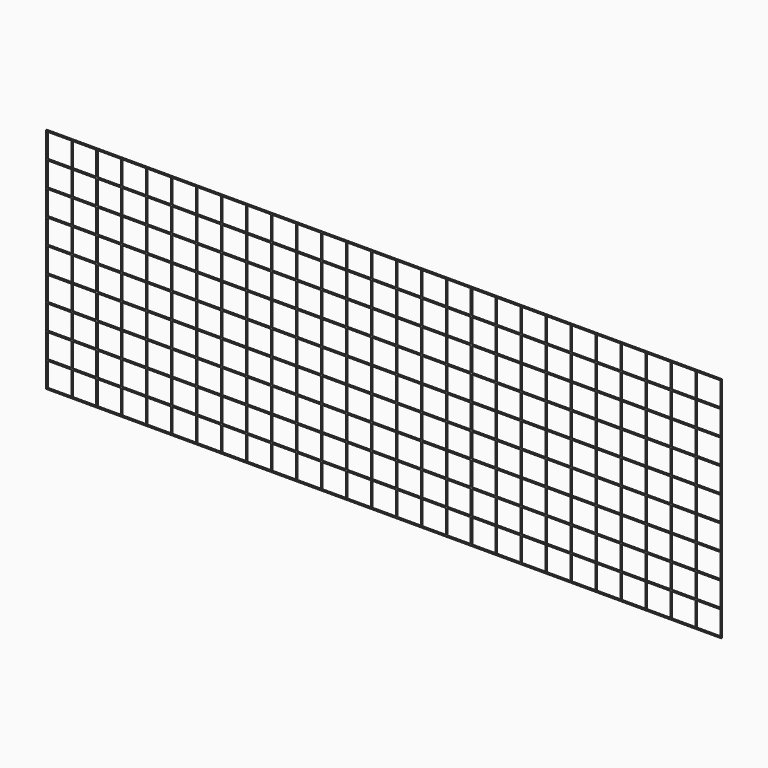
from build123d import *

# Parameters (mm, degrees)
F0_W     = 2722.88
F0_H     = 919.48
F1_DEPTH = 2.54
F2_W     = 96.52
F2_H     = 96.52
F3_DEPTH = 2.54


with BuildPart() as f1:
    # F0 (on Front) → F1 (new body)
    with BuildSketch(Plane.XZ):
        with Locations((1361.44, 459.74)):
            Rectangle(F0_W, F0_H)
    extrude(amount=F1_DEPTH)

    # F2 (on face) → F3 (cut)
    with BuildSketch(Plane.XZ):
        with Locations((53.34, 866.14)):
            Rectangle(F2_W, F2_H)
        with Locations((53.34, 764.54)):
            Rectangle(F2_W, F2_H)
        with Locations((53.34, 662.94)):
            Rectangle(F2_W, F2_H)
        with Locations((53.34, 561.34)):
            Rectangle(F2_W, F2_H)
        with Locations((53.34, 459.74)):
            Rectangle(F2_W, F2_H)
        with Locations((53.34, 358.14)):
            Rectangle(F2_W, F2_H)
        with Locations((53.34, 256.54)):
            Rectangle(F2_W, F2_H)
        with Locations((53.34, 154.94)):
            Rectangle(F2_W, F2_H)
        with Locations((53.34, 53.34)):
            Rectangle(F2_W, F2_H)
        with Locations((154.0002, 866.14)):
            Rectangle(F2_W, F2_H)
        with Locations((154.0002, 764.54)):
            Rectangle(F2_W, F2_H)
        with Locations((154.0002, 662.94)):
            Rectangle(F2_W, F2_H)
        with Locations((154.0002, 561.34)):
            Rectangle(F2_W, F2_H)
        with Locations((154.0002, 459.74)):
            Rectangle(F2_W, F2_H)
        with Locations((154.0002, 358.14)):
            Rectangle(F2_W, F2_H)
        with Locations((154.0002, 256.54)):
            Rectangle(F2_W, F2_H)
        with Locations((154.0002, 154.94)):
            Rectangle(F2_W, F2_H)
        with Locations((154.0002, 53.34)):
            Rectangle(F2_W, F2_H)
        with Locations((254.6604, 866.14)):
            Rectangle(F2_W, F2_H)
        with Locations((254.6604, 764.54)):
            Rectangle(F2_W, F2_H)
        with Locations((254.6604, 662.94)):
            Rectangle(F2_W, F2_H)
        with Locations((254.6604, 561.34)):
            Rectangle(F2_W, F2_H)
        with Locations((254.6604, 459.74)):
            Rectangle(F2_W, F2_H)
        with Locations((254.6604, 358.14)):
            Rectangle(F2_W, F2_H)
        with Locations((254.6604, 256.54)):
            Rectangle(F2_W, F2_H)
        with Locations((254.6604, 154.94)):
            Rectangle(F2_W, F2_H)
        with Locations((254.6604, 53.34)):
            Rectangle(F2_W, F2_H)
        with Locations((355.3206, 866.14)):
            Rectangle(F2_W, F2_H)
        with Locations((355.3206, 764.54)):
            Rectangle(F2_W, F2_H)
        with Locations((355.3206, 662.94)):
            Rectangle(F2_W, F2_H)
        with Locations((355.3206, 561.34)):
            Rectangle(F2_W, F2_H)
        with Locations((355.3206, 459.74)):
            Rectangle(F2_W, F2_H)
        with Locations((355.3206, 358.14)):
            Rectangle(F2_W, F2_H)
        with Locations((355.3206, 256.54)):
            Rectangle(F2_W, F2_H)
        with Locations((355.3206, 154.94)):
            Rectangle(F2_W, F2_H)
        with Locations((355.3206, 53.34)):
            Rectangle(F2_W, F2_H)
        with Locations((455.9808, 866.14)):
            Rectangle(F2_W, F2_H)
        with Locations((455.9808, 764.54)):
            Rectangle(F2_W, F2_H)
        with Locations((455.9808, 662.94)):
            Rectangle(F2_W, F2_H)
        with Locations((455.9808, 561.34)):
            Rectangle(F2_W, F2_H)
        with Locations((455.9808, 459.74)):
            Rectangle(F2_W, F2_H)
        with Locations((455.9808, 358.14)):
            Rectangle(F2_W, F2_H)
        with Locations((455.9808, 256.54)):
            Rectangle(F2_W, F2_H)
        with Locations((455.9808, 154.94)):
            Rectangle(F2_W, F2_H)
        with Locations((455.9808, 53.34)):
            Rectangle(F2_W, F2_H)
        with Locations((556.641, 866.14)):
            Rectangle(F2_W, F2_H)
        with Locations((556.641, 764.54)):
            Rectangle(F2_W, F2_H)
        with Locations((556.641, 662.94)):
            Rectangle(F2_W, F2_H)
        with Locations((556.641, 561.34)):
            Rectangle(F2_W, F2_H)
        with Locations((556.641, 459.74)):
            Rectangle(F2_W, F2_H)
        with Locations((556.641, 358.14)):
            Rectangle(F2_W, F2_H)
        with Locations((556.641, 256.54)):
            Rectangle(F2_W, F2_H)
        with Locations((556.641, 154.94)):
            Rectangle(F2_W, F2_H)
        with Locations((556.641, 53.34)):
            Rectangle(F2_W, F2_H)
        with Locations((657.3012, 866.14)):
            Rectangle(F2_W, F2_H)
        with Locations((657.3012, 764.54)):
            Rectangle(F2_W, F2_H)
        with Locations((657.3012, 662.94)):
            Rectangle(F2_W, F2_H)
        with Locations((657.3012, 561.34)):
            Rectangle(F2_W, F2_H)
        with Locations((657.3012, 459.74)):
            Rectangle(F2_W, F2_H)
        with Locations((657.3012, 358.14)):
            Rectangle(F2_W, F2_H)
        with Locations((657.3012, 256.54)):
            Rectangle(F2_W, F2_H)
        with Locations((657.3012, 154.94)):
            Rectangle(F2_W, F2_H)
        with Locations((657.3012, 53.34)):
            Rectangle(F2_W, F2_H)
        with Locations((757.9614, 866.14)):
            Rectangle(F2_W, F2_H)
        with Locations((757.9614, 764.54)):
            Rectangle(F2_W, F2_H)
        with Locations((757.9614, 662.94)):
            Rectangle(F2_W, F2_H)
        with Locations((757.9614, 561.34)):
            Rectangle(F2_W, F2_H)
        with Locations((757.9614, 459.74)):
            Rectangle(F2_W, F2_H)
        with Locations((757.9614, 358.14)):
            Rectangle(F2_W, F2_H)
        with Locations((757.9614, 256.54)):
            Rectangle(F2_W, F2_H)
        with Locations((757.9614, 154.94)):
            Rectangle(F2_W, F2_H)
        with Locations((757.9614, 53.34)):
            Rectangle(F2_W, F2_H)
        with Locations((858.6216, 866.14)):
            Rectangle(F2_W, F2_H)
        with Locations((858.6216, 764.54)):
            Rectangle(F2_W, F2_H)
        with Locations((858.6216, 662.94)):
            Rectangle(F2_W, F2_H)
        with Locations((858.6216, 561.34)):
            Rectangle(F2_W, F2_H)
        with Locations((858.6216, 459.74)):
            Rectangle(F2_W, F2_H)
        with Locations((858.6216, 358.14)):
            Rectangle(F2_W, F2_H)
        with Locations((858.6216, 256.54)):
            Rectangle(F2_W, F2_H)
        with Locations((858.6216, 154.94)):
            Rectangle(F2_W, F2_H)
        with Locations((858.6216, 53.34)):
            Rectangle(F2_W, F2_H)
        with Locations((959.2818, 866.14)):
            Rectangle(F2_W, F2_H)
        with Locations((959.2818, 764.54)):
            Rectangle(F2_W, F2_H)
        with Locations((959.2818, 662.94)):
            Rectangle(F2_W, F2_H)
        with Locations((959.2818, 561.34)):
            Rectangle(F2_W, F2_H)
        with Locations((959.2818, 459.74)):
            Rectangle(F2_W, F2_H)
        with Locations((959.2818, 358.14)):
            Rectangle(F2_W, F2_H)
        with Locations((959.2818, 256.54)):
            Rectangle(F2_W, F2_H)
        with Locations((959.2818, 154.94)):
            Rectangle(F2_W, F2_H)
        with Locations((959.2818, 53.34)):
            Rectangle(F2_W, F2_H)
        with Locations((1059.942, 866.14)):
            Rectangle(F2_W, F2_H)
        with Locations((1059.942, 764.54)):
            Rectangle(F2_W, F2_H)
        with Locations((1059.942, 662.94)):
            Rectangle(F2_W, F2_H)
        with Locations((1059.942, 561.34)):
            Rectangle(F2_W, F2_H)
        with Locations((1059.942, 459.74)):
            Rectangle(F2_W, F2_H)
        with Locations((1059.942, 358.14)):
            Rectangle(F2_W, F2_H)
        with Locations((1059.942, 256.54)):
            Rectangle(F2_W, F2_H)
        with Locations((1059.942, 154.94)):
            Rectangle(F2_W, F2_H)
        with Locations((1059.942, 53.34)):
            Rectangle(F2_W, F2_H)
        with Locations((1160.6022, 866.14)):
            Rectangle(F2_W, F2_H)
        with Locations((1160.6022, 764.54)):
            Rectangle(F2_W, F2_H)
        with Locations((1160.6022, 662.94)):
            Rectangle(F2_W, F2_H)
        with Locations((1160.6022, 561.34)):
            Rectangle(F2_W, F2_H)
        with Locations((1160.6022, 459.74)):
            Rectangle(F2_W, F2_H)
        with Locations((1160.6022, 358.14)):
            Rectangle(F2_W, F2_H)
        with Locations((1160.6022, 256.54)):
            Rectangle(F2_W, F2_H)
        with Locations((1160.6022, 154.94)):
            Rectangle(F2_W, F2_H)
        with Locations((1160.6022, 53.34)):
            Rectangle(F2_W, F2_H)
        with Locations((1261.2624, 866.14)):
            Rectangle(F2_W, F2_H)
        with Locations((1261.2624, 764.54)):
            Rectangle(F2_W, F2_H)
        with Locations((1261.2624, 662.94)):
            Rectangle(F2_W, F2_H)
        with Locations((1261.2624, 561.34)):
            Rectangle(F2_W, F2_H)
        with Locations((1261.2624, 459.74)):
            Rectangle(F2_W, F2_H)
        with Locations((1261.2624, 358.14)):
            Rectangle(F2_W, F2_H)
        with Locations((1261.2624, 256.54)):
            Rectangle(F2_W, F2_H)
        with Locations((1261.2624, 154.94)):
            Rectangle(F2_W, F2_H)
        with Locations((1261.2624, 53.34)):
            Rectangle(F2_W, F2_H)
        with Locations((1361.9226, 866.14)):
            Rectangle(F2_W, F2_H)
        with Locations((1361.9226, 764.54)):
            Rectangle(F2_W, F2_H)
        with Locations((1361.9226, 662.94)):
            Rectangle(F2_W, F2_H)
        with Locations((1361.9226, 561.34)):
            Rectangle(F2_W, F2_H)
        with Locations((1361.9226, 459.74)):
            Rectangle(F2_W, F2_H)
        with Locations((1361.9226, 358.14)):
            Rectangle(F2_W, F2_H)
        with Locations((1361.9226, 256.54)):
            Rectangle(F2_W, F2_H)
        with Locations((1361.9226, 154.94)):
            Rectangle(F2_W, F2_H)
        with Locations((1361.9226, 53.34)):
            Rectangle(F2_W, F2_H)
        with Locations((1462.5828, 866.14)):
            Rectangle(F2_W, F2_H)
        with Locations((1462.5828, 764.54)):
            Rectangle(F2_W, F2_H)
        with Locations((1462.5828, 662.94)):
            Rectangle(F2_W, F2_H)
        with Locations((1462.5828, 561.34)):
            Rectangle(F2_W, F2_H)
        with Locations((1462.5828, 459.74)):
            Rectangle(F2_W, F2_H)
        with Locations((1462.5828, 358.14)):
            Rectangle(F2_W, F2_H)
        with Locations((1462.5828, 256.54)):
            Rectangle(F2_W, F2_H)
        with Locations((1462.5828, 154.94)):
            Rectangle(F2_W, F2_H)
        with Locations((1462.5828, 53.34)):
            Rectangle(F2_W, F2_H)
        with Locations((1563.243, 866.14)):
            Rectangle(F2_W, F2_H)
        with Locations((1563.243, 764.54)):
            Rectangle(F2_W, F2_H)
        with Locations((1563.243, 662.94)):
            Rectangle(F2_W, F2_H)
        with Locations((1563.243, 561.34)):
            Rectangle(F2_W, F2_H)
        with Locations((1563.243, 459.74)):
            Rectangle(F2_W, F2_H)
        with Locations((1563.243, 358.14)):
            Rectangle(F2_W, F2_H)
        with Locations((1563.243, 256.54)):
            Rectangle(F2_W, F2_H)
        with Locations((1563.243, 154.94)):
            Rectangle(F2_W, F2_H)
        with Locations((1563.243, 53.34)):
            Rectangle(F2_W, F2_H)
        with Locations((1663.9032, 866.14)):
            Rectangle(F2_W, F2_H)
        with Locations((1663.9032, 764.54)):
            Rectangle(F2_W, F2_H)
        with Locations((1663.9032, 662.94)):
            Rectangle(F2_W, F2_H)
        with Locations((1663.9032, 561.34)):
            Rectangle(F2_W, F2_H)
        with Locations((1663.9032, 459.74)):
            Rectangle(F2_W, F2_H)
        with Locations((1663.9032, 358.14)):
            Rectangle(F2_W, F2_H)
        with Locations((1663.9032, 256.54)):
            Rectangle(F2_W, F2_H)
        with Locations((1663.9032, 154.94)):
            Rectangle(F2_W, F2_H)
        with Locations((1663.9032, 53.34)):
            Rectangle(F2_W, F2_H)
        with Locations((1764.5634, 866.14)):
            Rectangle(F2_W, F2_H)
        with Locations((1764.5634, 764.54)):
            Rectangle(F2_W, F2_H)
        with Locations((1764.5634, 662.94)):
            Rectangle(F2_W, F2_H)
        with Locations((1764.5634, 561.34)):
            Rectangle(F2_W, F2_H)
        with Locations((1764.5634, 459.74)):
            Rectangle(F2_W, F2_H)
        with Locations((1764.5634, 358.14)):
            Rectangle(F2_W, F2_H)
        with Locations((1764.5634, 256.54)):
            Rectangle(F2_W, F2_H)
        with Locations((1764.5634, 154.94)):
            Rectangle(F2_W, F2_H)
        with Locations((1764.5634, 53.34)):
            Rectangle(F2_W, F2_H)
        with Locations((1865.2236, 866.14)):
            Rectangle(F2_W, F2_H)
        with Locations((1865.2236, 764.54)):
            Rectangle(F2_W, F2_H)
        with Locations((1865.2236, 662.94)):
            Rectangle(F2_W, F2_H)
        with Locations((1865.2236, 561.34)):
            Rectangle(F2_W, F2_H)
        with Locations((1865.2236, 459.74)):
            Rectangle(F2_W, F2_H)
        with Locations((1865.2236, 358.14)):
            Rectangle(F2_W, F2_H)
        with Locations((1865.2236, 256.54)):
            Rectangle(F2_W, F2_H)
        with Locations((1865.2236, 154.94)):
            Rectangle(F2_W, F2_H)
        with Locations((1865.2236, 53.34)):
            Rectangle(F2_W, F2_H)
        with Locations((1965.8838, 866.14)):
            Rectangle(F2_W, F2_H)
        with Locations((1965.8838, 764.54)):
            Rectangle(F2_W, F2_H)
        with Locations((1965.8838, 662.94)):
            Rectangle(F2_W, F2_H)
        with Locations((1965.8838, 561.34)):
            Rectangle(F2_W, F2_H)
        with Locations((1965.8838, 459.74)):
            Rectangle(F2_W, F2_H)
        with Locations((1965.8838, 358.14)):
            Rectangle(F2_W, F2_H)
        with Locations((1965.8838, 256.54)):
            Rectangle(F2_W, F2_H)
        with Locations((1965.8838, 154.94)):
            Rectangle(F2_W, F2_H)
        with Locations((1965.8838, 53.34)):
            Rectangle(F2_W, F2_H)
        with Locations((2066.544, 866.14)):
            Rectangle(F2_W, F2_H)
        with Locations((2066.544, 764.54)):
            Rectangle(F2_W, F2_H)
        with Locations((2066.544, 662.94)):
            Rectangle(F2_W, F2_H)
        with Locations((2066.544, 561.34)):
            Rectangle(F2_W, F2_H)
        with Locations((2066.544, 459.74)):
            Rectangle(F2_W, F2_H)
        with Locations((2066.544, 358.14)):
            Rectangle(F2_W, F2_H)
        with Locations((2066.544, 256.54)):
            Rectangle(F2_W, F2_H)
        with Locations((2066.544, 154.94)):
            Rectangle(F2_W, F2_H)
        with Locations((2066.544, 53.34)):
            Rectangle(F2_W, F2_H)
        with Locations((2167.2042, 866.14)):
            Rectangle(F2_W, F2_H)
        with Locations((2167.2042, 764.54)):
            Rectangle(F2_W, F2_H)
        with Locations((2167.2042, 662.94)):
            Rectangle(F2_W, F2_H)
        with Locations((2167.2042, 561.34)):
            Rectangle(F2_W, F2_H)
        with Locations((2167.2042, 459.74)):
            Rectangle(F2_W, F2_H)
        with Locations((2167.2042, 358.14)):
            Rectangle(F2_W, F2_H)
        with Locations((2167.2042, 256.54)):
            Rectangle(F2_W, F2_H)
        with Locations((2167.2042, 154.94)):
            Rectangle(F2_W, F2_H)
        with Locations((2167.2042, 53.34)):
            Rectangle(F2_W, F2_H)
        with Locations((2267.8644, 866.14)):
            Rectangle(F2_W, F2_H)
        with Locations((2267.8644, 764.54)):
            Rectangle(F2_W, F2_H)
        with Locations((2267.8644, 662.94)):
            Rectangle(F2_W, F2_H)
        with Locations((2267.8644, 561.34)):
            Rectangle(F2_W, F2_H)
        with Locations((2267.8644, 459.74)):
            Rectangle(F2_W, F2_H)
        with Locations((2267.8644, 358.14)):
            Rectangle(F2_W, F2_H)
        with Locations((2267.8644, 256.54)):
            Rectangle(F2_W, F2_H)
        with Locations((2267.8644, 154.94)):
            Rectangle(F2_W, F2_H)
        with Locations((2267.8644, 53.34)):
            Rectangle(F2_W, F2_H)
        with Locations((2368.5246, 866.14)):
            Rectangle(F2_W, F2_H)
        with Locations((2368.5246, 764.54)):
            Rectangle(F2_W, F2_H)
        with Locations((2368.5246, 662.94)):
            Rectangle(F2_W, F2_H)
        with Locations((2368.5246, 561.34)):
            Rectangle(F2_W, F2_H)
        with Locations((2368.5246, 459.74)):
            Rectangle(F2_W, F2_H)
        with Locations((2368.5246, 358.14)):
            Rectangle(F2_W, F2_H)
        with Locations((2368.5246, 256.54)):
            Rectangle(F2_W, F2_H)
        with Locations((2368.5246, 154.94)):
            Rectangle(F2_W, F2_H)
        with Locations((2368.5246, 53.34)):
            Rectangle(F2_W, F2_H)
        with Locations((2469.1848, 866.14)):
            Rectangle(F2_W, F2_H)
        with Locations((2469.1848, 764.54)):
            Rectangle(F2_W, F2_H)
        with Locations((2469.1848, 662.94)):
            Rectangle(F2_W, F2_H)
        with Locations((2469.1848, 561.34)):
            Rectangle(F2_W, F2_H)
        with Locations((2469.1848, 459.74)):
            Rectangle(F2_W, F2_H)
        with Locations((2469.1848, 358.14)):
            Rectangle(F2_W, F2_H)
        with Locations((2469.1848, 256.54)):
            Rectangle(F2_W, F2_H)
        with Locations((2469.1848, 154.94)):
            Rectangle(F2_W, F2_H)
        with Locations((2469.1848, 53.34)):
            Rectangle(F2_W, F2_H)
        with Locations((2569.845, 866.14)):
            Rectangle(F2_W, F2_H)
        with Locations((2569.845, 764.54)):
            Rectangle(F2_W, F2_H)
        with Locations((2569.845, 662.94)):
            Rectangle(F2_W, F2_H)
        with Locations((2569.845, 561.34)):
            Rectangle(F2_W, F2_H)
        with Locations((2569.845, 459.74)):
            Rectangle(F2_W, F2_H)
        with Locations((2569.845, 358.14)):
            Rectangle(F2_W, F2_H)
        with Locations((2569.845, 256.54)):
            Rectangle(F2_W, F2_H)
        with Locations((2569.845, 154.94)):
            Rectangle(F2_W, F2_H)
        with Locations((2569.845, 53.34)):
            Rectangle(F2_W, F2_H)
        with Locations((2670.5052, 866.14)):
            Rectangle(F2_W, F2_H)
        with Locations((2670.5052, 764.54)):
            Rectangle(F2_W, F2_H)
        with Locations((2670.5052, 662.94)):
            Rectangle(F2_W, F2_H)
        with Locations((2670.5052, 561.34)):
            Rectangle(F2_W, F2_H)
        with Locations((2670.5052, 459.74)):
            Rectangle(F2_W, F2_H)
        with Locations((2670.5052, 358.14)):
            Rectangle(F2_W, F2_H)
        with Locations((2670.5052, 256.54)):
            Rectangle(F2_W, F2_H)
        with Locations((2670.5052, 154.94)):
            Rectangle(F2_W, F2_H)
        with Locations((2670.5052, 53.34)):
            Rectangle(F2_W, F2_H)
    extrude(amount=F3_DEPTH, mode=Mode.SUBTRACT)


solid = f1.part
